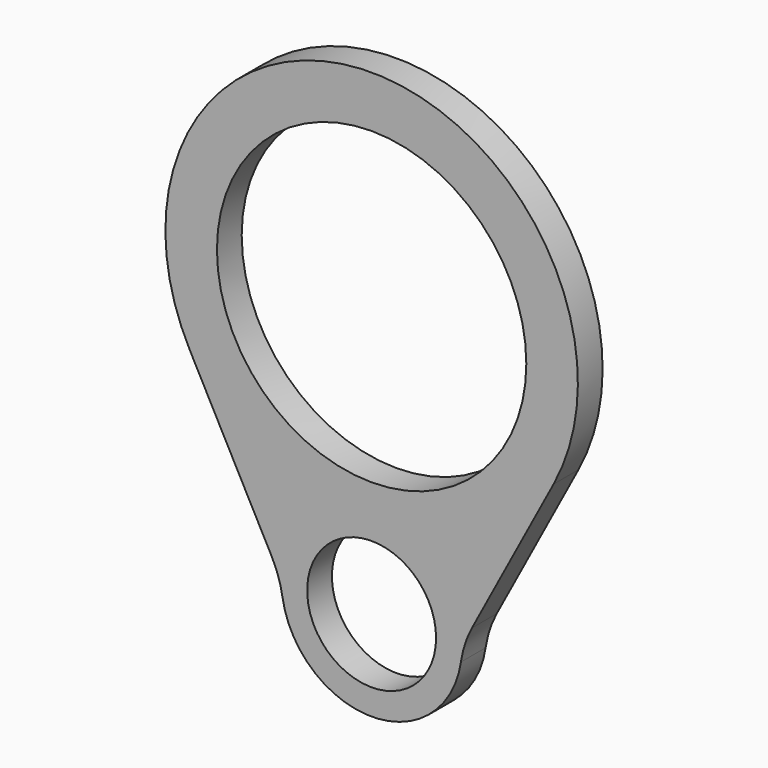
from build123d import *

# Parameters (mm, degrees)
F0_R     = 12.5
F0_R_2   = 30
F1_DEPTH = 6
F2_R     = 20


with BuildPart() as f1:
    # F0 (on Front) → F1 (new body)
    with BuildSketch(Plane.XZ):
        with BuildLine():
            Line((17.497548, -33.390142), (35.297627, 0))
            ThreePointArc((35.297627, 0), (0, 58.816947), (-35.297627, 0))
            Line((-35.297627, 0), (-17.5, -33.683053))
            ThreePointArc((-17.5, -33.683053), (0.14646, -51.18244), (17.497548, -33.390142))
        make_face()
        with Locations((0, -33.683053)):
            Circle(F0_R, mode=Mode.SUBTRACT)
        with Locations((0, 18.816947)):
            Circle(F0_R_2, mode=Mode.SUBTRACT)
    extrude(amount=F1_DEPTH)

    # F2
    f2_edges = [f1.edges().sort_by_distance(p)[0] for p in [
        (17.497548, -3, -33.390142),
        (-17.5, -3, -33.683053),
    ]]
    fillet(f2_edges, radius=F2_R)


solid = f1.part
